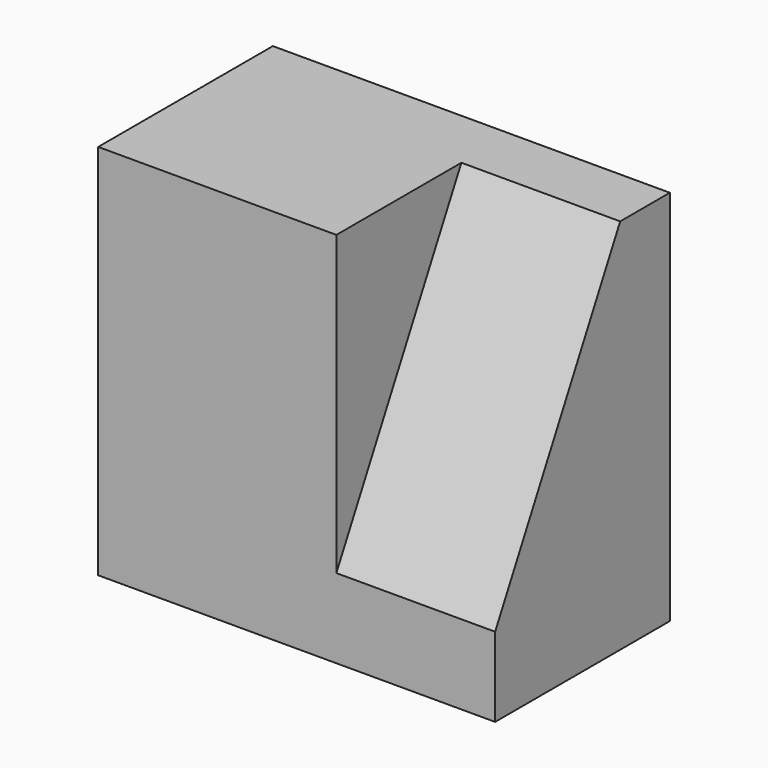
from build123d import *

# Parameters (mm, degrees)
F0_W     = 38.1
F0_H     = 60.325
F1_DEPTH = 34.925
F3_DEPTH = 25.4
F5_DEPTH = 25.4
F6_W     = 25.0000946254
F6_H     = 12.7
F7_DEPTH = 25.4


with BuildPart() as f1:
    # F0 (on Front) → F1 (new body)
    with BuildSketch(Plane.XZ):
        with Locations((19.05, 30.1625)):
            Rectangle(F0_W, F0_H)
    extrude(amount=F1_DEPTH)

    # F2 (on face) → F3 (join)
    with BuildSketch(Plane.YZ.offset(38.1)):
        Polygon((-9.9249053746, 60.325), (-34.925, 12.7), (-9.9249053746, 12.7), align=None)
    extrude(amount=F3_DEPTH)

    # F4 (on face) → F5 (join)
    with BuildSketch(Plane.YZ.offset(38.1)):
        Polygon((0, 60.325), (-9.9249053746, 60.325), (-9.9249053746, 12.7), (-9.9249053746, 0), (0, 0), align=None)
    extrude(amount=F5_DEPTH)

    # F6 (on face) → F7 (join)
    with BuildSketch(Plane.YZ.offset(38.1)):
        with Locations((-22.4249526873, 6.35)):
            Rectangle(F6_W, F6_H)
    extrude(amount=F7_DEPTH)


solid = f1.part
